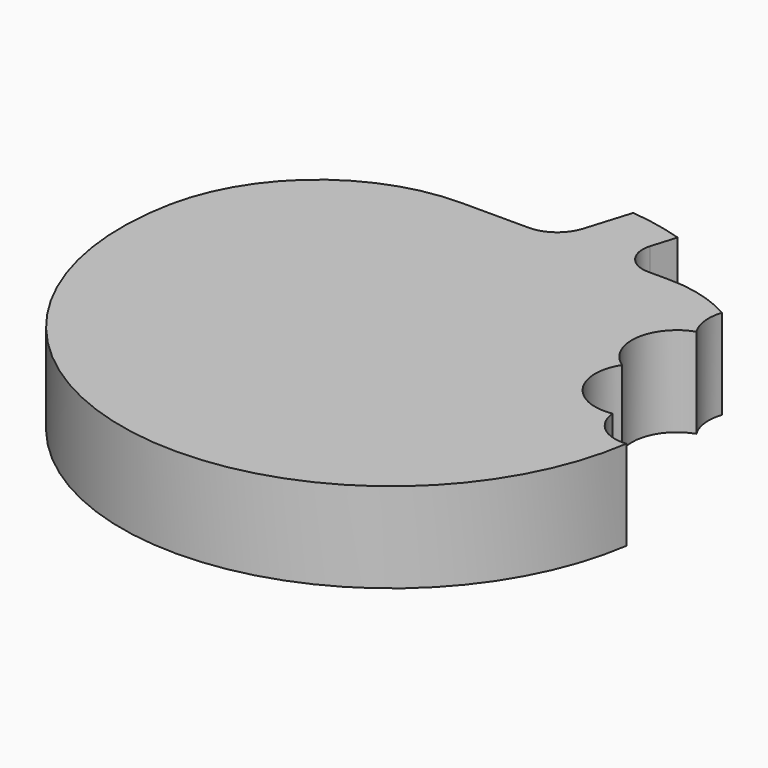
from build123d import *

# Parameters (mm, degrees)
BOX002_W                  = 10
BOX002_H                  = 14
BOX002_DEPTH              = 15
CYLINDER002_R             = 5
CYLINDER002_DEPTH         = 15
CYLINDER001_R             = 5
CYLINDER001_DEPTH         = 15
CYLINDER004_R             = 4
CYLINDER004_DEPTH         = 15
CYLINDER003_R             = 5
CYLINDER003_DEPTH         = 15
FUSION003_PLACEMENT_ANGLE = 20
BOX001_W                  = 6
BOX001_H                  = 25
BOX001_DEPTH              = 38
BOX001_PLACEMENT_ANGLE    = -17
BOX_W                     = 59
BOX_H                     = 14
BOX_DEPTH                 = 15
CYLINDER_R                = 30
CYLINDER_DEPTH            = 10
FILLET_R                  = 20
FILLET001_R               = 15
FILLET002_R               = 4
FILLET003_R               = 3


with BuildPart() as cube002:
    # Box002 → Box002 (new body)
    with BuildSketch(Plane(origin=(23, -9, -2), x_dir=(1, 0, 0), z_dir=(0, 0, 1))):
        with Locations((5, 7)):
            Rectangle(BOX002_W, BOX002_H)
    extrude(amount=BOX002_DEPTH)


with BuildPart() as fusion:
    # Cylinder002 → Cylinder002 (new body)
    with BuildSketch(Plane(origin=(24, 2, -3), x_dir=(1, 0, 0), z_dir=(0, 0, 1))):
        Circle(CYLINDER002_R)
    extrude(amount=CYLINDER002_DEPTH)

    # Fusion: union Cube002
    add(cube002.part)


with BuildPart() as fusion001:
    # Cylinder001 → Cylinder001 (new body)
    with BuildSketch(Plane(origin=(29, 8, -3), x_dir=(1, 0, 0), z_dir=(0, 0, 1))):
        Circle(CYLINDER001_R)
    extrude(amount=CYLINDER001_DEPTH)

    # Fusion001: union Fusion
    add(fusion.part)


with BuildPart() as fusion002:
    # Cylinder004 → Cylinder004 (new body)
    with BuildSketch(Plane(origin=(26, -11, -3), x_dir=(1, 0, 0), z_dir=(0, 0, 1))):
        Circle(CYLINDER004_R)
    extrude(amount=CYLINDER004_DEPTH)

    # Fusion002: union Fusion001
    add(fusion001.part)


with BuildPart() as fusion003:
    # Cylinder003 → Cylinder003 (new body)
    with BuildSketch(Plane(origin=(23, -5, -3), x_dir=(1, 0, 0), z_dir=(0, 0, 1))):
        Circle(CYLINDER003_R)
    extrude(amount=CYLINDER003_DEPTH)

    # Fusion003: union Fusion002
    add(fusion002.part)


with BuildPart() as fusion003_1:
    # Fusion003 placement: moved
    add(fusion003.part.moved(Location((1, 1, 0))).rotate(Axis((1, 1, 0), (0, 0, 1)), FUSION003_PLACEMENT_ANGLE))


with BuildPart() as cube001:
    # Box001 → Box001 (new body)
    with BuildSketch(Plane.XY):
        with Locations((3, 12.5)):
            Rectangle(BOX001_W, BOX001_H)
    extrude(amount=BOX001_DEPTH)


with BuildPart() as cube001_1:
    # Box001 placement: moved
    add(cube001.part.moved(Location((0, 20, -14))).rotate(Axis((0, 20, -14), (0, 0, 1)), BOX001_PLACEMENT_ANGLE))


with BuildPart() as cut:
    # Box → Box (new body)
    with BuildSketch(Plane(origin=(-29, 22, -3), x_dir=(1, 0, 0), z_dir=(0, 0, 1))):
        with Locations((29.5, 7)):
            Rectangle(BOX_W, BOX_H)
    extrude(amount=BOX_DEPTH)

    # Cut: cut Cube001
    add(cube001_1.part, mode=Mode.SUBTRACT)


with BuildPart() as cut002:
    # Cylinder → Cylinder (new body)
    with BuildSketch(Plane.XY):
        Circle(CYLINDER_R)
    extrude(amount=CYLINDER_DEPTH)

    # Cut001: cut Cut
    add(cut.part, mode=Mode.SUBTRACT)

    # Fillet
    fillet_edges = [cut002.edges().sort_by_distance(p)[0] for p in [
        (-20.396078, 22, 5),
    ]]
    fillet(fillet_edges, radius=FILLET_R)

    # Fillet001
    fillet001_edges = [cut002.edges().sort_by_distance(p)[0] for p in [
        (20.396078, 22, 5),
    ]]
    fillet(fillet001_edges, radius=FILLET001_R)

    # Fillet002
    fillet002_edges = [cut002.edges().sort_by_distance(p)[0] for p in [
        (0.611461, 22, 5),
    ]]
    fillet(fillet002_edges, radius=FILLET002_R)

    # Fillet003
    fillet003_edges = [cut002.edges().sort_by_distance(p)[0] for p in [
        (6.885612, 22, 5),
    ]]
    fillet(fillet003_edges, radius=FILLET003_R)

    # Cut002: cut Fusion003
    add(fusion003_1.part, mode=Mode.SUBTRACT)


solid = cut002.part
